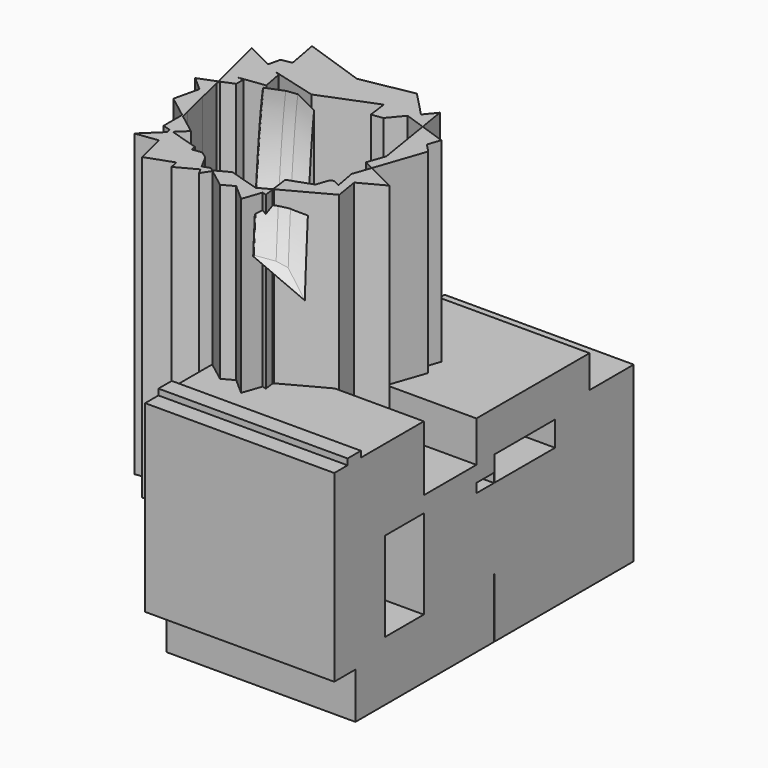
from build123d import *

# Parameters (mm, degrees)
F1_DEPTH = 169.164
F3_ANGLE = 42
F4_W     = 27.2967740893
F4_H     = 8.9567527175
F4_W_2   = 37.1065437794
F4_W_3   = 0.4265103489
F4_H_2   = 45.2102720737
F4_W_4   = 9.3832612038
F4_H_3   = 4.6916306019
F4_H_4   = 3.4120976925
F4_W_5   = 42.651200667
F5_DEPTH = 106.68


with BuildPart() as f1:
    # F0 (on Top) → F1 (new body)
    with BuildSketch(Plane.XY):
        Polygon((-50.1227589842, 15.3879384294), (-43.3333106339, 18.0923077316), (-43.3333106339, 23.1357025852), (-46.2047979236, 23.3634412289), (-43.3333106339, 23.7439998835), (-43.3333106339, 39.5981930196), (-37.0215344021, 37.8993928477), (-44.0182849759, 41.3929918335), align=None)
        Polygon((-36.553526507, -35.0874734949), (-30.7439862482, -29.5109365824), (-42.2391987354, -20.7513317388), (-38.9174933779, -34.3664766637), align=None)
        Polygon((-50.5804544428, 13.4381562162), (-50.1227589842, 15.3879384294), (-50.9734741939, 15.0490820189), align=None)
        Polygon((-50.9734741939, 15.0490820189), (-50.1227589842, 15.3879384294), (-44.0182849759, 41.3929918335), (-59.2570006847, 49.0019470453), align=None)
        Polygon((19.8393482715, 43.2552061975), (21.2752338564, 32.3065802773), (27.6373341604, 33.1497504145), (34.6368638731, 41.5453743069), (-4.8967991299, 55.1326908761), (-36.475014218, 49.3321649238), (-34.2373062519, 37.1500241936), (-11.1131709013, 30.9262159238), align=None)
        Polygon((-20.0432058134, -40.1230300623), (-36.553526507, -35.0874734949), (-38.3264064485, -36.7892485055), (-36.2739471098, -45.2019547335), (-19.5165822801, -42.9899823598), align=None)
        Polygon((-38.3264064485, -36.7892485055), (-36.553526507, -35.0874734949), (-38.9174933779, -34.3664766637), align=None)
        Polygon((-43.3333106339, -19.9175943985), (-42.2391987354, -20.7513317388), (-43.3333106339, -16.2667401034), align=None)
        Polygon((-38.9174933779, -34.3664766637), (-42.2391987354, -20.7513317388), (-43.3333106339, -19.9175943985), (-43.3333106339, -33.0196768045), align=None)
        Polygon((-43.3333106339, -19.9175943985), (-43.3333106339, -16.2667401034), (-47.0552178082, -1.0112312245), (-52.7863706901, 4.0409551246), (-56.1226987596, -10.1717992428), align=None)
        Polygon((-52.7863706901, 4.0409551246), (-47.0552178082, -1.0112312245), (-50.5804544428, 13.4381562162), align=None)
        Polygon((-10.1563565198, -45.1991634235), (-14.009428283, -42.2630379611), (-19.5165822801, -42.9899823598), (-16.9679908633, -56.8645807308), (-5.9595703824, -52.9301512492), align=None)
        Polygon((36.6843799063, -37.6891259345), (30.7339125482, -39.8158337799), (32.1003864343, -50.2351955773), (32.4343107025, -50.0551293896), align=None)
        Polygon((-50.5804544428, 13.4381562162), (-50.9734741939, 15.0490820189), (-60.8232617378, 11.1257201061), (-52.7863706901, 4.0409551246), align=None)
        Polygon((-42.4105648596, 48.2418779825), (-44.0182849759, 41.3929918335), (-37.0215344021, 37.8993928477), (-34.2373062519, 37.1500241936), (-36.475014218, 49.3321649238), align=None)
        Polygon((51.5096915296, 5.4466080896), (48.0621479758, -4.5843663379), (53.4661469595, -7.2826768135), (53.5305580684, -7.0952662193), align=None)
        Polygon((38.4786265542, 46.1533973995), (34.6368638731, 41.5453743069), (46.3412880529, 37.5226831493), (46.2561807006, 38.0508752361), align=None)
        Polygon((-4.8967991299, 55.1326908761), (34.6368638731, 41.5453743069), (38.4786265542, 46.1533973995), (24.6497974622, 60.5600337408), align=None)
        Polygon((-36.2739471098, -45.2019547335), (-38.3264064485, -36.7892485055), (-48.8152392209, -46.8574054539), align=None)
        Polygon((-16.9679908633, -56.8645807308), (-19.5165822801, -42.9899823598), (-36.2739471098, -45.2019547335), (-32.1084186435, -62.2757971287), align=None)
        Polygon((-1.9102153776, -51.4829044131), (-5.9595703824, -52.9301512492), (-4.6175102425, -55.4023884), (-0.0043172139, -52.9352407492), align=None)
        Polygon((-4.6175102425, -55.4023884), (-5.9595703824, -52.9301512492), (-16.9679908633, -56.8645807308), (-16.1078095342, -61.5474303979), align=None)
        Polygon((52.2088035941, -29.1014444083), (48.1877904894, -27.1619759907), (46.2838850642, -28.1801895725), (43.9023871694, -35.1093970239), (36.6843799063, -37.6891259345), (32.4343107025, -50.0551293896), (58.2128204405, -36.1542589962), (56.0835045111, -22.9393275606), (51.5247370561, -25.3773682729), align=None)
        Polygon((53.4661469595, -7.2826768135), (50.0348495204, -17.2663815375), (51.5247370561, -25.3773682729), (56.0835045111, -22.9393275606), (53.5690331375, -7.3340496677), align=None)
        Polygon((32.4343107025, -50.0551293896), (32.1003864343, -50.2351955773), (32.1755217103, -50.8081019693), align=None)
        Polygon((32.1755217103, -50.8081019693), (32.1003864343, -50.2351955773), (25.2405336864, -53.9343203497), (30.5450359245, -55.552164217), align=None)
        Polygon((25.2405336864, -53.9343203497), (7.9743487963, -48.6682293796), (7.3719157257, -48.9904121553), (17.6335314817, -58.0363399313), align=None)
        Polygon((46.3412880529, 37.5226831493), (51.5096915296, 5.4466080896), (58.3759578123, 25.4246998583), (46.9709014511, 37.3062914489), align=None)
        Polygon((58.3759578123, 25.4246998583), (51.5096915296, 5.4466080896), (53.5305580684, -7.0952662193), (63.0380690784, 20.567792513), align=None)
        Polygon((53.5305580684, -7.0952662193), (53.4661469595, -7.2826768135), (53.5690331375, -7.3340496677), align=None)
        Polygon((-39.7402177317, 67.1080183043), (-36.475014218, 49.3321649238), (-4.8967991299, 55.1326908761), align=None)
        Polygon((46.2561807006, 38.0508752361), (46.3412880529, 37.5226831493), (46.9709014511, 37.3062914489), align=None)
        Polygon((43.9023871694, 52.6589564979), (38.4786265542, 46.1533973995), (46.2561807006, 38.0508752361), align=None)
        Polygon((-0.0043172139, -52.9352407492), (-4.6175102425, -55.4023884), (-2.8714858927, -58.6187765002), (0.4627534137, -53.2911588443), align=None)
        Polygon((1.0325380808, -52.3807278362), (-0.0043172139, -52.9352407492), (0.4627534137, -53.2911588443), align=None)
        Polygon((7.3719157257, -48.9904121553), (1.0325380808, -52.3807278362), (0.4627534137, -53.2911588443), (11.224896647, -61.4921487868), (17.6335314817, -58.0363399313), align=None)
        Polygon((32.8915528953, -56.2678389251), (32.1755217103, -50.8081019693), (30.5450359245, -55.552164217), align=None)
        Polygon((30.5450359245, -55.552164217), (25.2405336864, -53.9343203497), (17.6335314817, -58.0363399313), (26.8875360489, -66.1940276623), align=None)
        Polygon((46.9709014511, 37.3062914489), (58.3759578123, 25.4246998583), (60.8232617378, 32.545376569), align=None)
        Polygon((69.9598044157, -15.5182462186), (53.5690331375, -7.3340496677), (56.0835045111, -22.9393275606), align=None)
        Polygon((-43.3333106339, 23.7439998835), (-32.0494812339, 25.239447539), (-34.1077041249, 36.4444668226), (-37.0215344021, 37.8993928477), (-43.3333106339, 39.5981930196), align=None)
    extrude(amount=F1_DEPTH)

    # F4 (on Right) → F5 (join)
    with BuildSketch(Plane.YZ):
        Polygon((-85.3024050593, -30.8170877397), (-85.3024050593, 27.1885432303), (-64.4033178687, 27.1885432303), (-64.4033178687, 36.1452959478), (-37.1065437794, 36.1452959478), (-37.1065437794, 72.8253275156), (-81.4637988806, 72.8253275156), (-81.4637988806, 68.1336969137), (-90.8470600843, 68.1336969137), (-90.8470600843, 72.8253275156), (-100.2303212881, 72.8253275156), (-100.2303212881, -30.8170877397), align=None)
        Polygon((-64.4033178687, 27.1885432303), (-85.3024050593, 27.1885432303), (-85.3024050593, -30.8170877397), (-37.1065437794, -30.8170877397), (-37.1065437794, -23.1398716569), (-64.4033178687, -23.1398716569), align=None)
        with Locations((-50.754930824, 31.666919589)):
            Rectangle(F4_W, F4_H)
        Polygon((-37.1065437794, -30.8170877397), (-85.3024050593, -30.8170877397), (-85.3024050593, -56.8343214691), (12.36885041, -56.8343214691), (12.36885041, -23.1398716569), (-37.1065437794, -23.1398716569), align=None)
        with Locations((-18.5532718897, 31.666919589)):
            Rectangle(F4_W_2, F4_H)
        Polygon((0, 27.1885432303), (-37.1065437794, 27.1885432303), (-37.1065437794, -23.1398716569), (12.36885041, -23.1398716569), (12.36885041, 22.0704004169), (0, 22.0704004169), align=None)
        Polygon((0, 36.1452959478), (0, 27.1885432303), (12.36885041, 27.1885432303), (12.36885041, 22.0704004169), (12.7953607589, 22.0704004169), (12.7953607589, 36.1452959478), align=None)
        Polygon((0, 59.1769441962), (0, 36.1452959478), (12.7953607589, 36.1452959478), (12.7953607589, 40.8369265497), (79.7577425838, 40.8369265497), (79.7577425838, 59.1769441962), align=None)
        with Locations((12.5821055844, -0.53473562)):
            Rectangle(F4_W_3, F4_H_2)
        with Locations((-86.1554294825, 70.4795122147)):
            Rectangle(F4_W_4, F4_H_3)
        with Locations((-86.1554294825, 74.5313763618)):
            Rectangle(F4_W_4, F4_H_4)
        Polygon((12.7953607589, 40.8369265497), (12.7953607589, 36.1452959478), (55.4465614259, 36.1452959478), (55.4465614259, 22.0704004169), (79.7577425838, 22.0704004169), (79.7577425838, 40.8369265497), align=None)
        Polygon((55.4465614259, -23.1398716569), (12.7953607589, -23.1398716569), (12.7953607589, -56.8343214691), (110.8931303024, -56.8343214691), (110.8931303024, 40.8369265497), (79.7577425838, 40.8369265497), (79.7577425838, 22.0704004169), (55.4465614259, 22.0704004169), align=None)
        with Locations((34.1209610924, -0.53473562)):
            Rectangle(F4_W_5, F4_H_2)
    extrude(amount=F5_DEPTH)


with BuildPart() as f1b:
    # F0 (on Top) → F1, piece 2 (new body)
    with BuildSketch(Plane.XY):
        Polygon((-31.4905197832, 22.1964467731), (-0.6786186549, 19.7527443065), (-15.9422516741, 27.3741411638), (-22.0695037511, 26.5620954984), (-31.5954562049, 22.7677233991), align=None)
    extrude(amount=F1_DEPTH)


with BuildPart() as f3:
    # F1_face (on face) → F3 (revolve)
    with BuildSketch(Plane(origin=(-16.9734235138, 23.3219165905, 169.164), x_dir=(1, 0, 0), z_dir=(0, 0, 1))):
        Polygon((1.0311718397, 4.0522245733), (-5.0960802373, 3.2401789078), (-14.6220326911, -0.5541931914), (-14.5170962694, -1.1254698174), (16.2948048589, -3.5691722841), align=None)
    revolve(axis=Axis((1.8273070455, 3.0020065606, 0), (0.8023421921, 0.5968643119, 0)), revolution_arc=F3_ANGLE)


solid = Compound([f1.part, f1b.part, f3.part])
